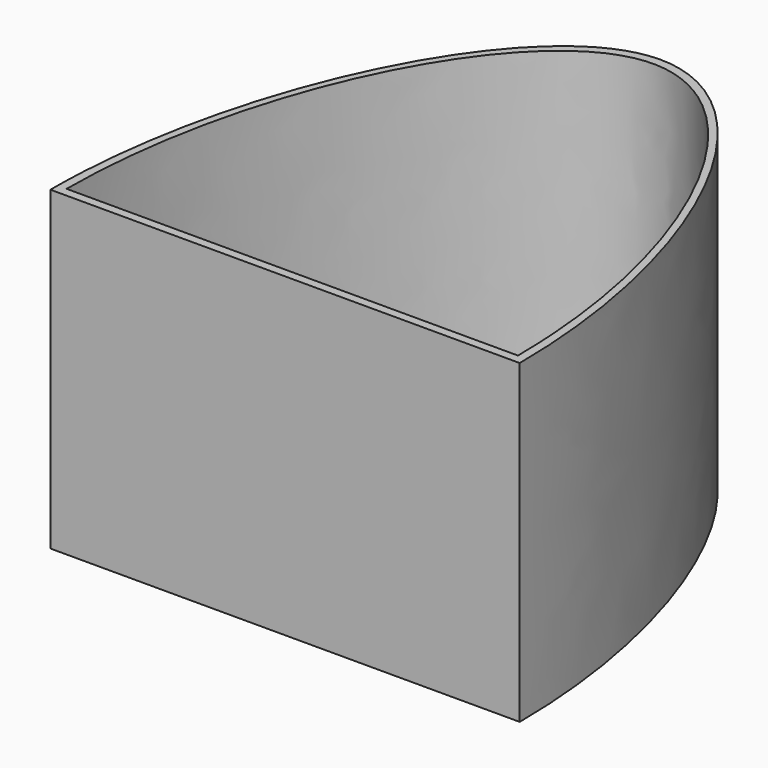
from build123d import *

# Parameters (mm, degrees)
F1_DEPTH = 70


with BuildPart() as f1:
    # F0 (on Top) → F1 (new body)
    with BuildSketch(Plane.XY):
        with BuildLine():
            add(Edge.make_bspline(
                [(-50, -50), (-50, 0), (-24.960507, 50), (0, 50)],
                knots=[0, 0, 0, 0, 111.803399, 111.803399, 111.803399, 111.803399], degree=3))
            Line((0, 50), (0, 52))
            add(Edge.make_bspline(
                [(-52, -52), (-52, 0), (-25.960507, 52), (0, 52)],
                knots=[0, 0, 0, 0, 116.275535, 116.275535, 116.275535, 116.275535], degree=3))
            Line((-52, -52), (0, -52))
            Line((0, -52), (0, -50))
            Line((0, -50), (-50, -50))
        make_face()
        with BuildLine():
            Line((0, 52), (0, 50))
            add(Edge.make_bspline(
                [(0, 50), (24.960507, 50), (49.84203, 0), (50, -50)],
                knots=[111.803399, 111.803399, 111.803399, 111.803399, 223.606798, 223.606798, 223.606798, 223.606798], degree=3))
            Line((50, -50), (0, -50))
            Line((0, -50), (0, -52))
            Line((0, -52), (52, -52))
            add(Edge.make_bspline(
                [(0, 52), (25.960507, 52), (51.84203, 0), (52, -52)],
                knots=[116.275535, 116.275535, 116.275535, 116.275535, 232.55107, 232.55107, 232.55107, 232.55107], degree=3))
        make_face()
    extrude(amount=F1_DEPTH)


solid = f1.part
